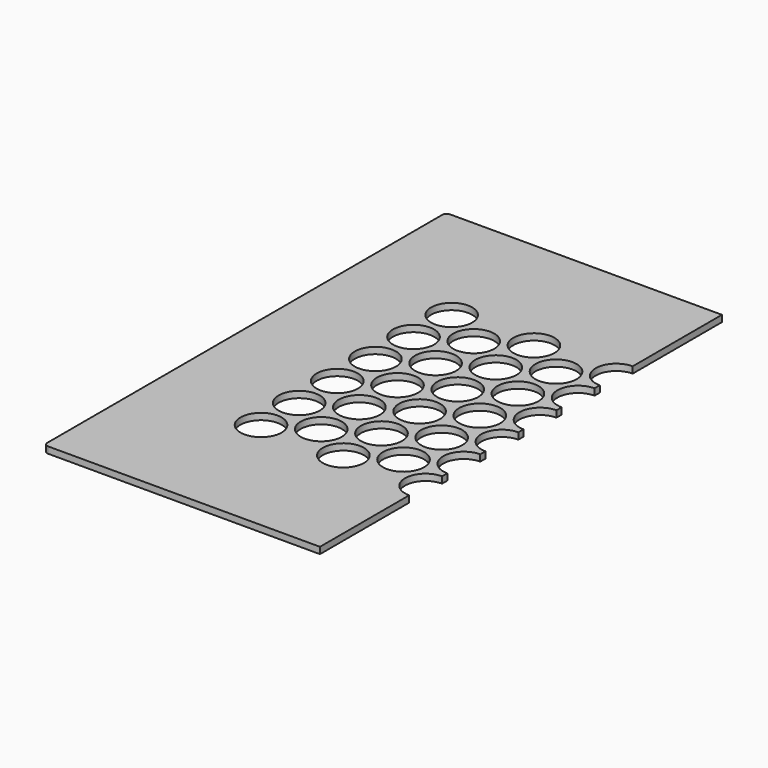
from build123d import *

# Parameters (mm, degrees)
SKETCH064_W     = 445
SKETCH064_H     = 232
PAD024_DEPTH    = 3
SKETCH065_R     = 9.5
POCKET040_DEPTH = 5
FILLET009_R     = 2
SKETCH066_R     = 7
POCKET041_DEPTH = 10.001
SKETCH081_W     = 425.970062
SKETCH081_H     = 417.705674
POCKET053_DEPTH = 5


with BuildPart() as part:
    # Sketch064 → Pad024 (new body)
    with BuildSketch(Plane.XY):
        Rectangle(SKETCH064_W, SKETCH064_H)
    extrude(amount=PAD024_DEPTH)

    # Sketch065 (on Face6 of Pad024) → Pocket040 (cut)
    with BuildSketch(Plane.XY.offset(3)):
        with Locations((-171, 55)):
            Circle(SKETCH065_R)
        with Locations((-171, 33)):
            Circle(SKETCH065_R)
        with Locations((-171, 11)):
            Circle(SKETCH065_R)
        with Locations((-171, -11)):
            Circle(SKETCH065_R)
        with Locations((-171, -33)):
            Circle(SKETCH065_R)
        with Locations((-171, -55)):
            Circle(SKETCH065_R)
        with Locations((-152, 44)):
            Circle(SKETCH065_R)
        with Locations((-152, 22)):
            Circle(SKETCH065_R)
        with Locations((-152, 0)):
            Circle(SKETCH065_R)
        with Locations((-152, -22)):
            Circle(SKETCH065_R)
        with Locations((-152, -44)):
            Circle(SKETCH065_R)
        with Locations((-133, 55)):
            Circle(SKETCH065_R)
        with Locations((-133, 33)):
            Circle(SKETCH065_R)
        with Locations((-133, 11)):
            Circle(SKETCH065_R)
        with Locations((-133, -11)):
            Circle(SKETCH065_R)
        with Locations((-133, -33)):
            Circle(SKETCH065_R)
        with Locations((-133, -55)):
            Circle(SKETCH065_R)
        with Locations((-114, 44)):
            Circle(SKETCH065_R)
        with Locations((-114, 22)):
            Circle(SKETCH065_R)
        with Locations((-114, 0)):
            Circle(SKETCH065_R)
        with Locations((-114, -22)):
            Circle(SKETCH065_R)
        with Locations((-114, -44)):
            Circle(SKETCH065_R)
        with Locations((-95, 55)):
            Circle(SKETCH065_R)
        with Locations((-95, 33)):
            Circle(SKETCH065_R)
        with Locations((-95, 11)):
            Circle(SKETCH065_R)
        with Locations((-95, -11)):
            Circle(SKETCH065_R)
        with Locations((-95, -33)):
            Circle(SKETCH065_R)
        with Locations((-95, -55)):
            Circle(SKETCH065_R)
        with Locations((-76, -44)):
            Circle(SKETCH065_R)
        with Locations((-76, -22)):
            Circle(SKETCH065_R)
        with Locations((-76, 0)):
            Circle(SKETCH065_R)
        with Locations((-76, 22)):
            Circle(SKETCH065_R)
        with Locations((-76, 44)):
            Circle(SKETCH065_R)
        with Locations((-57, 55)):
            Circle(SKETCH065_R)
        with Locations((-57, 33)):
            Circle(SKETCH065_R)
        with Locations((-57, 11)):
            Circle(SKETCH065_R)
        with Locations((-57, -11)):
            Circle(SKETCH065_R)
        with Locations((-57, -33)):
            Circle(SKETCH065_R)
        with Locations((-38, 44)):
            Circle(SKETCH065_R)
        with Locations((-38, 22)):
            Circle(SKETCH065_R)
        with Locations((-38, 0)):
            Circle(SKETCH065_R)
        with Locations((-38, -22)):
            Circle(SKETCH065_R)
        with Locations((-38, -44)):
            Circle(SKETCH065_R)
        with Locations((-57, -55)):
            Circle(SKETCH065_R)
        with Locations((-19, 55)):
            Circle(SKETCH065_R)
        with Locations((-19, 33)):
            Circle(SKETCH065_R)
        with Locations((-19, 11)):
            Circle(SKETCH065_R)
        with Locations((-19, -11)):
            Circle(SKETCH065_R)
        with Locations((-19, -33)):
            Circle(SKETCH065_R)
        with Locations((-19, -55)):
            Circle(SKETCH065_R)
        with Locations((0, -44)):
            Circle(SKETCH065_R)
        with Locations((0, -22)):
            Circle(SKETCH065_R)
        Circle(SKETCH065_R)
        with Locations((0, 22)):
            Circle(SKETCH065_R)
        with Locations((0, 44)):
            Circle(SKETCH065_R)
        with Locations((19, 55)):
            Circle(SKETCH065_R)
        with Locations((19, 33)):
            Circle(SKETCH065_R)
        with Locations((19, 11)):
            Circle(SKETCH065_R)
        with Locations((19, -11)):
            Circle(SKETCH065_R)
        with Locations((19, -33)):
            Circle(SKETCH065_R)
        with Locations((19, -55)):
            Circle(SKETCH065_R)
        with Locations((38, -44)):
            Circle(SKETCH065_R)
        with Locations((38, -22)):
            Circle(SKETCH065_R)
        with Locations((38, 0)):
            Circle(SKETCH065_R)
        with Locations((38, 22)):
            Circle(SKETCH065_R)
        with Locations((38, 44)):
            Circle(SKETCH065_R)
        with Locations((57, 55)):
            Circle(SKETCH065_R)
        with Locations((57, 33)):
            Circle(SKETCH065_R)
        with Locations((57, 11)):
            Circle(SKETCH065_R)
        with Locations((57, -11)):
            Circle(SKETCH065_R)
        with Locations((76, 0)):
            Circle(SKETCH065_R)
        with Locations((76, 22)):
            Circle(SKETCH065_R)
        with Locations((76, 44)):
            Circle(SKETCH065_R)
        with Locations((57, -33)):
            Circle(SKETCH065_R)
        with Locations((57, -55)):
            Circle(SKETCH065_R)
        with Locations((76, -44)):
            Circle(SKETCH065_R)
        with Locations((76, -22)):
            Circle(SKETCH065_R)
        with Locations((95, 55)):
            Circle(SKETCH065_R)
        with Locations((95, 33)):
            Circle(SKETCH065_R)
        with Locations((95, 11)):
            Circle(SKETCH065_R)
        with Locations((95, -11)):
            Circle(SKETCH065_R)
        with Locations((95, -33)):
            Circle(SKETCH065_R)
        with Locations((95, -55)):
            Circle(SKETCH065_R)
        with Locations((114, 44)):
            Circle(SKETCH065_R)
        with Locations((114, 22)):
            Circle(SKETCH065_R)
        with Locations((114, 0)):
            Circle(SKETCH065_R)
        with Locations((114, -22)):
            Circle(SKETCH065_R)
        with Locations((114, -44)):
            Circle(SKETCH065_R)
        with Locations((133, 55)):
            Circle(SKETCH065_R)
        with Locations((133, 33)):
            Circle(SKETCH065_R)
        with Locations((133, 11)):
            Circle(SKETCH065_R)
        with Locations((133, -11)):
            Circle(SKETCH065_R)
        with Locations((133, -33)):
            Circle(SKETCH065_R)
        with Locations((133, -55)):
            Circle(SKETCH065_R)
        with Locations((152, 44)):
            Circle(SKETCH065_R)
        with Locations((152, 22)):
            Circle(SKETCH065_R)
        with Locations((152, 0)):
            Circle(SKETCH065_R)
        with Locations((152, -22)):
            Circle(SKETCH065_R)
        with Locations((152, -44)):
            Circle(SKETCH065_R)
        with Locations((171, 55)):
            Circle(SKETCH065_R)
        with Locations((171, 33)):
            Circle(SKETCH065_R)
        with Locations((171, 11)):
            Circle(SKETCH065_R)
        with Locations((171, -11)):
            Circle(SKETCH065_R)
        with Locations((171, -33)):
            Circle(SKETCH065_R)
        with Locations((171, -55)):
            Circle(SKETCH065_R)
    extrude(amount=-POCKET040_DEPTH, mode=Mode.SUBTRACT)

    # Fillet009
    fillet009_edges = [part.edges().sort_by_distance(p)[0] for p in [
        (-222.5, -116, 1.5),
        (222.5, -116, 1.5),
        (222.5, 116, 1.5),
        (-222.5, 116, 1.5),
    ]]
    fillet(fillet009_edges, radius=FILLET009_R)

    # Sketch066 → Pocket041 (cut, through all)
    with BuildSketch(Plane.XY.offset(10)):
        with Locations((197.939534, 0)):
            Circle(SKETCH066_R)
    extrude(amount=-POCKET041_DEPTH, mode=Mode.SUBTRACT)

    # Sketch081 (on Face5 of Pocket041) → Pocket053 (cut)
    with BuildSketch(Plane.XY.offset(3)):
        with Locations((117.985031, -23.346199)):
            Rectangle(SKETCH081_W, SKETCH081_H)
    extrude(amount=-POCKET053_DEPTH, mode=Mode.SUBTRACT)


solid = part.part
